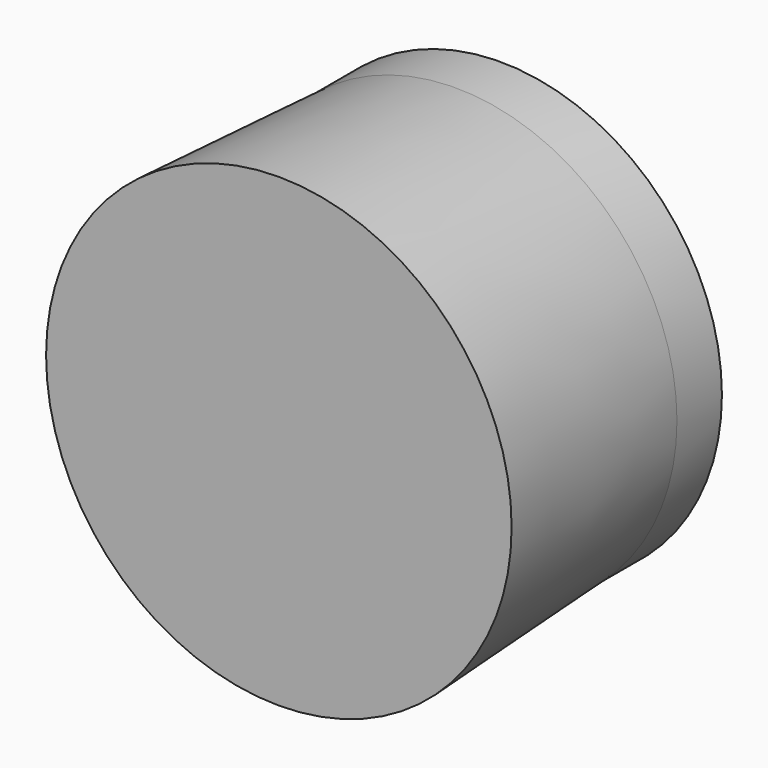
from build123d import *

# Parameters (mm, degrees)
F0_R          = 100
F1_DEPTH      = 100
F1_TAPER      = -3
F1_DEPTH_BACK = 25.4
F3_DEPTH      = 10


with BuildPart() as f1:
    # F0 (on Front) → F1 (new body, two sides)
    with BuildSketch(Plane.XZ) as f1_sk:
        Circle(F0_R)
    extrude(amount=F1_DEPTH, taper=F1_TAPER)
    extrude(f1_sk.sketch, amount=-F1_DEPTH_BACK)

    # F2 (on face) → F3 (cut)
    with BuildSketch(Plane(origin=(0, 25.4, 0), x_dir=(-1, 0, 0), z_dir=(0, 1, 0))):
        Polygon((-44.0593010875, 59.3877397515), (-73.4609418419, -8.462604139), (-29.4016407544, -67.8503438906), (44.0593010875, -59.3877397515), (73.4609418419, 8.462604139), (29.4016407544, 67.8503438906), align=None)
    extrude(amount=-F3_DEPTH, mode=Mode.SUBTRACT)


solid = f1.part
